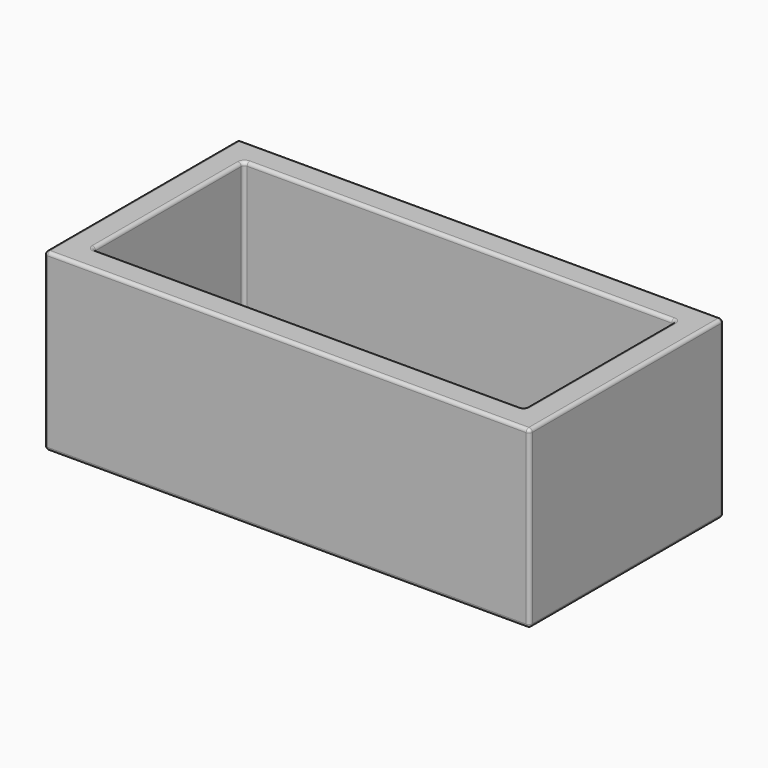
from build123d import *

# Parameters (mm, degrees)
F0_W     = 1828.8
F0_H     = 914.4
F1_DEPTH = 660.4
F2_W     = 1625.6
F2_H     = 711.2
F3_DEPTH = 558.8
F4_R     = 12.7


with BuildPart() as f1:
    # F0 (on Top) → F1 (new body)
    with BuildSketch(Plane.XY):
        Rectangle(F0_W, F0_H)
    extrude(amount=F1_DEPTH)

    # F2 (on face) → F3 (cut)
    with BuildSketch(Plane.XY.offset(660.4)):
        Rectangle(F2_W, F2_H)
    extrude(amount=-F3_DEPTH, mode=Mode.SUBTRACT)

    # F4
    f4_edges = [f1.edges().sort_by_distance(p)[0] for p in [
        (0, -355.6, 101.6),
        (812.8, 0, 101.6),
        (0, 355.6, 101.6),
        (-812.8, 0, 101.6),
        (812.8, 355.6, 381),
        (-812.8, 355.6, 381),
        (0, 355.6, 660.4),
        (-812.8, -355.6, 381),
        (-812.8, 0, 660.4),
        (812.8, -355.6, 381),
        (812.8, 0, 660.4),
        (0, -355.6, 660.4),
        (-914.4, -457.2, 330.2),
        (914.4, -457.2, 330.2),
        (0, -457.2, 0),
        (0, -457.2, 660.4),
        (914.4, 457.2, 330.2),
        (914.4, 0, 0),
        (914.4, 0, 660.4),
        (-914.4, 457.2, 330.2),
        (0, 457.2, 0),
        (0, 457.2, 660.4),
        (-914.4, 0, 0),
        (-914.4, 0, 660.4),
    ]]
    fillet(f4_edges, radius=F4_R)


solid = f1.part
